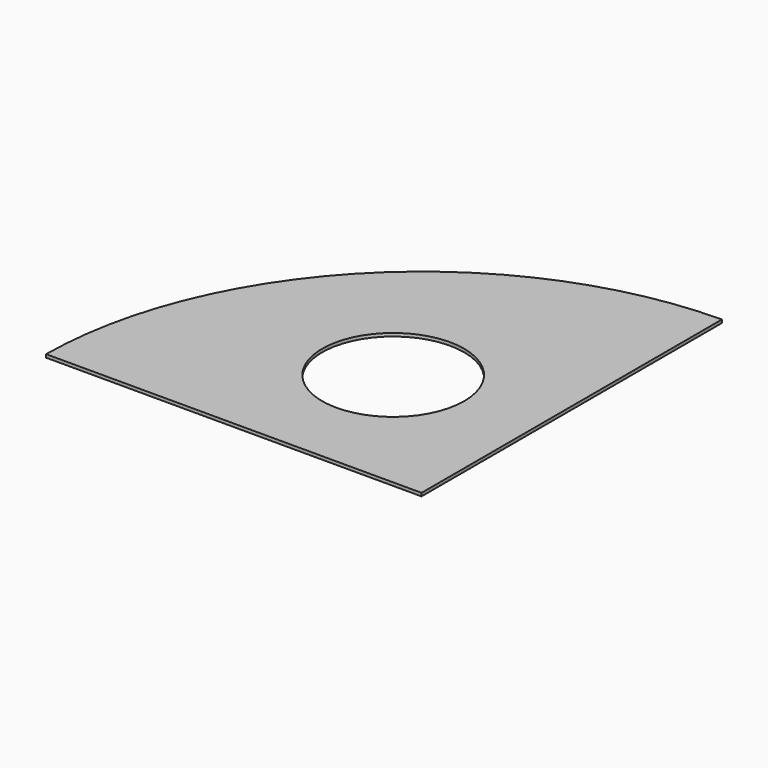
from build123d import *

# Parameters (mm, degrees)
F0_R     = 22.5
F1_DEPTH = 1


with BuildPart() as f1:
    # F0 (on Top) → F1 (new body)
    with BuildSketch(Plane.XY):
        with BuildLine():
            Line((-1, 1), (-1, 119.995833))
            ThreePointArc((-1, 119.995833), (-84.852814, 84.852814), (-119.995833, 1))
            Line((-119.995833, 1), (-1, 1))
        make_face()
        with Locations((-45.961941, 45.961941)):
            Circle(F0_R, mode=Mode.SUBTRACT)
    extrude(amount=F1_DEPTH)


solid = f1.part
